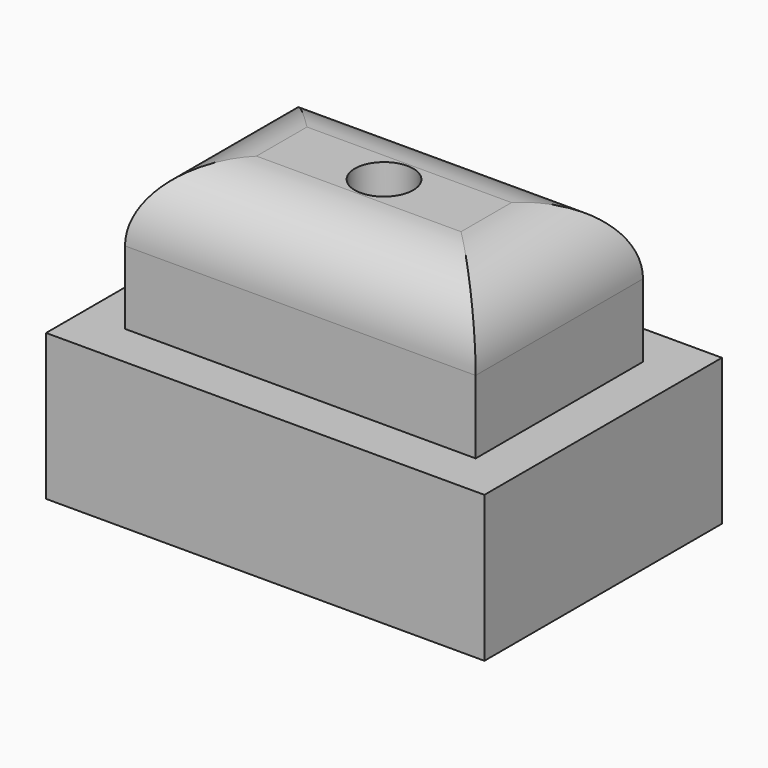
from build123d import *

# Parameters (mm, degrees)
F0_W     = 300
F0_H     = 203.185
F1_DEPTH = 100
F2_W     = 240
F2_H     = 143.185
F3_DEPTH = 100
F4_R     = 50
F5_R     = 20
F6_DEPTH = 170


with BuildPart() as f1:
    # F0 (on Top) → F1 (new body)
    with BuildSketch(Plane.XY):
        with Locations((77.316695, 26.535105)):
            Rectangle(F0_W, F0_H)
    extrude(amount=F1_DEPTH)

    # F2 (on face) → F3 (join)
    with BuildSketch(Plane.XY.offset(100)):
        with Locations((77.316695, 26.535105)):
            Rectangle(F2_W, F2_H)
    extrude(amount=F3_DEPTH)

    # F4
    f4_edges = [f1.edges().sort_by_distance(p)[0] for p in [
        (77.316695, 98.127605, 200),
        (-42.683305, 26.535105, 200),
        (77.316695, -45.057395, 200),
        (197.316695, 26.535105, 200),
    ]]
    fillet(f4_edges, radius=F4_R)

    # F5 (on face) → F6 (cut)
    with BuildSketch(Plane.XY.offset(200)):
        with Locations((77.316695, 26.535105)):
            Circle(F5_R)
    extrude(amount=-F6_DEPTH, mode=Mode.SUBTRACT)


solid = f1.part
